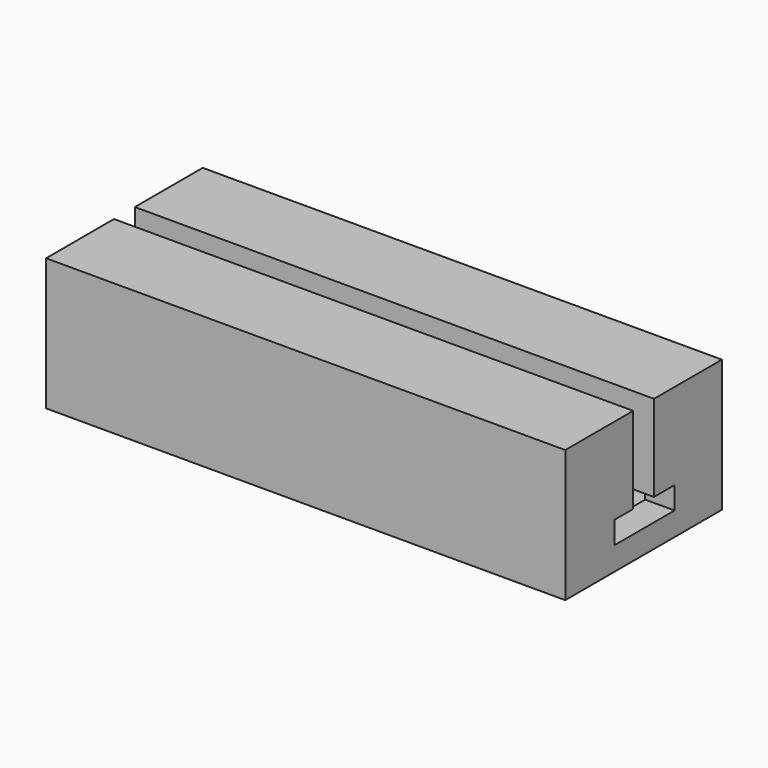
from build123d import *

# Parameters (mm, degrees)
F0_W      = 269.38311
F0_H      = 16.098589
F0_H_2    = 69.402822
F1_DEPTH  = 68.58
F2_W      = 269.38311
F2_H      = 13.501506
F3_DEPTH  = 51.816
F4_W      = 55.430394
F4_H      = 9.777048
F5_DEPTH  = 176.784
F6_DEPTH  = 15.24
F7_W      = 55.430394
F7_H      = 9.777048
F8_DEPTH  = 26.416
F9_W      = 39.127992
F9_H      = 11.603475
F10_DEPTH = 187.198


with BuildPart() as f1:
    # F0 (on Top) → F1 (new body)
    with BuildSketch(Plane.XY):
        with Locations((0, 42.750705)):
            Rectangle(F0_W, F0_H)
        Rectangle(F0_W, F0_H_2)
        with Locations((0, -42.750705)):
            Rectangle(F0_W, F0_H)
    extrude(amount=F1_DEPTH)

    # F2 (on face) → F3 (cut)
    with BuildSketch(Plane.XY.offset(68.58)):
        Rectangle(F2_W, F2_H)
    extrude(amount=-F3_DEPTH, mode=Mode.SUBTRACT)

    # F4 (on face) → F5 (cut)
    with BuildSketch(Plane.YZ.offset(134.691555)):
        with Locations((-0.261033, 15.165092)):
            Rectangle(F4_W, F4_H)
    extrude(amount=-F5_DEPTH, mode=Mode.SUBTRACT)

    # F4 (on face) → F6 (join)
    with BuildSketch(Plane.YZ.offset(134.691555)):
        with Locations((-0.261033, 15.165092)):
            Rectangle(F4_W, F4_H)
    extrude(amount=-F6_DEPTH)

    # F7 (on face) → F8 (join)
    with BuildSketch(Plane(origin=(-134.691555, 0, 0), x_dir=(0, -1, 0), z_dir=(-1, 0, 0))):
        with Locations((20.964444, 15.165092)):
            Rectangle(F7_W, F7_H)
    extrude(amount=-F8_DEPTH)

    # F9 (on face) → F10 (cut)
    with BuildSketch(Plane.YZ.offset(134.691555)):
        with Locations((0.539697, 17.944907)):
            Rectangle(F9_W, F9_H)
    extrude(amount=-F10_DEPTH, mode=Mode.SUBTRACT)


solid = f1.part
